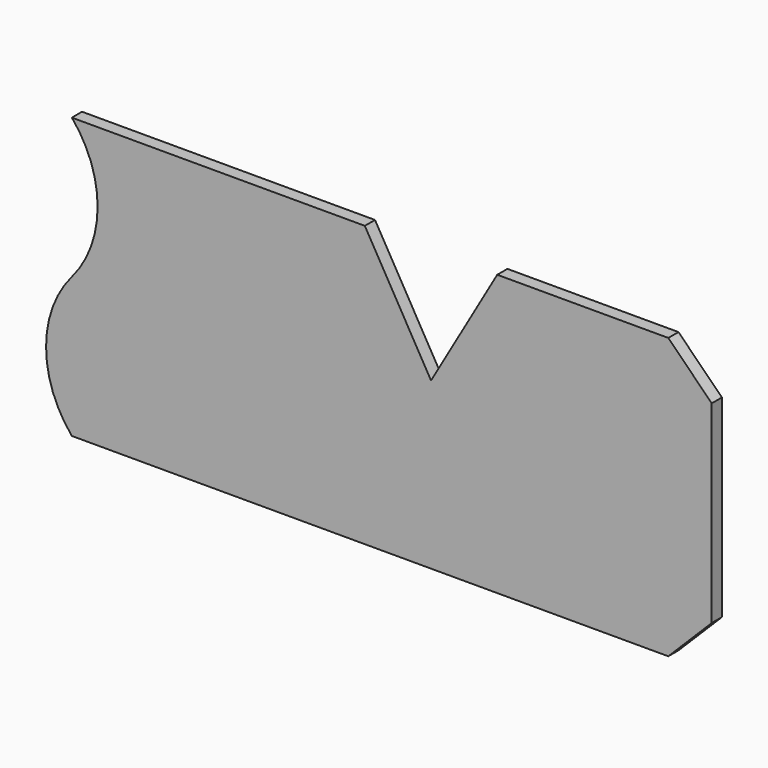
from build123d import *

# Parameters (mm, degrees)
F1_DEPTH = 1


with BuildPart() as f1:
    # F0 (on Front) → F1 (new body)
    with BuildSketch(Plane.XZ):
        with BuildLine():
            Line((113.174544, 36.973573), (90.174544, 36.973573))
            ThreePointArc((90.174544, 36.973573), (92.196906, 31.473573), (90.174544, 25.973573))
            ThreePointArc((90.174544, 25.973573), (88.152182, 20.473573), (90.174544, 14.973573))
            Line((90.174544, 14.973573), (111.174544, 14.973573))
            Line((111.174544, 14.973573), (121.566849, 14.973573))
            Line((121.566849, 14.973573), (136.993918, 14.973573))
            Line((136.993918, 14.973573), (140.403688, 18.383343))
            Line((140.403688, 18.383343), (140.403688, 25.973573))
            Line((140.403688, 25.973573), (140.403688, 33.563804))
            Line((140.403688, 33.563804), (136.993918, 36.973573))
            Line((136.993918, 36.973573), (123.566849, 36.973573))
            Line((123.566849, 36.973573), (118.370696, 27.973573))
            Line((118.370696, 27.973573), (113.174544, 36.973573))
        make_face()
    extrude(amount=F1_DEPTH)


solid = f1.part
